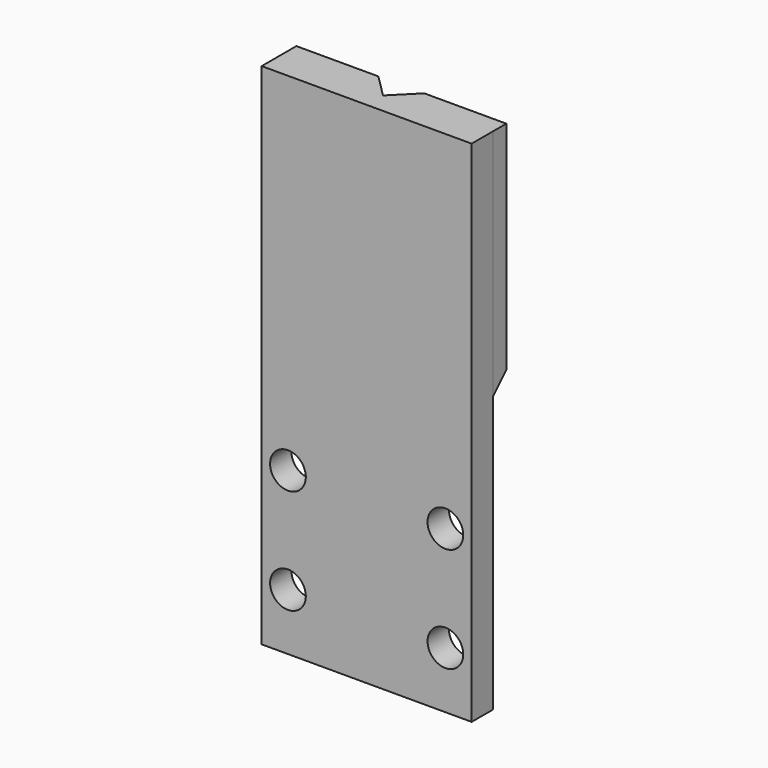
from build123d import *

# Parameters (mm, degrees)
SKETCH061_W     = 19.99996
SKETCH061_H     = 48.49876
SKETCH061_R     = 1.7
PAD018_DEPTH    = 2.54
SKETCH038_W     = 20
SKETCH038_H     = 22.225
PAD004_DEPTH    = 1.5875
POCKET005_DEPTH = 12.7
POCKET006_DEPTH = 9.525
CHAMFER_SIZE    = 1.4986
SKETCH062_R     = 0.9
PAD019_DEPTH    = 2.975
CHAMFER002_SIZE = 1.016
CHAMFER005_SIZE = 1.58496


with BuildPart() as part:
    # Sketch061 → Pad018 (new body)
    with BuildSketch(Plane(origin=(0, 10, -45.999574), x_dir=(-1, 0, 0), z_dir=(0, 1, 0))):
        with Locations((0, 13.85062)):
            Rectangle(SKETCH061_W, SKETCH061_H)
        with Locations((-7.5, 5.00124)):
            Circle(SKETCH061_R, mode=Mode.SUBTRACT)
        with Locations((-7.5, -4.99876)):
            Circle(SKETCH061_R, mode=Mode.SUBTRACT)
        with Locations((7.5, -4.99876)):
            Circle(SKETCH061_R, mode=Mode.SUBTRACT)
        with Locations((7.5, 5.00124)):
            Circle(SKETCH061_R, mode=Mode.SUBTRACT)
    extrude(amount=PAD018_DEPTH)

    # Sketch038 (on Face10 of Pad018) → Pad004 (join)
    with BuildSketch(Plane(origin=(0, 12.54, -45.999574), x_dir=(-1, 0, 0), z_dir=(0, 1, 0))):
        with Locations((0, 26.9875)):
            Rectangle(SKETCH038_W, SKETCH038_H)
    extrude(amount=PAD004_DEPTH)

    # Sketch040 (on Face5 of Pad004) → Pocket005 (cut)
    with BuildSketch(Plane(origin=(0, 10, -7.899574), x_dir=(1, 0, 0), z_dir=(0, 0, 1))):
        Polygon((-2.184862, 4.1275), (0, 1.942638), (2.184862, 4.1275), align=None)
    extrude(amount=-POCKET005_DEPTH, mode=Mode.SUBTRACT)

    # Sketch037 (on Face18 of Pocket005) → Pocket006 (cut)
    with BuildSketch(Plane(origin=(0, 10, -20.599574), x_dir=(1, 0, 0), z_dir=(0, 0, 1))):
        with BuildLine():
            Line((-2.184862, 3.2225), (-2.184862, 4.1275))
            Line((-2.184862, 4.1275), (2.184862, 4.1275))
            Line((2.184862, 4.1275), (2.184862, 3.2225))
            ThreePointArc((-2.184862, 3.2225), (0, 1.037638), (2.184862, 3.2225))
        make_face()
    extrude(amount=-POCKET006_DEPTH, mode=Mode.SUBTRACT)

    # Chamfer
    chamfer_edges = [part.edges().sort_by_distance(p)[0] for p in [
        (0, 12.54, -30.124574),
    ]]
    chamfer(chamfer_edges, length=CHAMFER_SIZE)

    # Sketch062 (on Face6 of Chamfer) → Pad019 (join)
    with BuildSketch(Plane(origin=(0, 10, -56.398334), x_dir=(-1, 0, 0), z_dir=(0, 0, -1))):
        with BuildLine():
            Line((-3.175, 2.54), (-3.175, 0))
            Line((-3.175, 0), (3.175, 0))
            Line((3.175, 0), (3.175, 2.54))
            Line((3.175, 2.54), (1.90374, 6.488023))
            ThreePointArc((1.90374, 6.488023), (0, 7.87502), (-1.90374, 6.488023))
            Line((-1.90374, 6.488023), (-3.175, 2.54))
        make_face()
        with Locations((0, 5.87502)):
            Circle(SKETCH062_R, mode=Mode.SUBTRACT)
    extrude(amount=-PAD019_DEPTH)

    # Chamfer002
    chamfer002_edges = [part.edges().sort_by_distance(p)[0] for p in [
        (0, 12.54, -53.423334),
    ]]
    chamfer(chamfer002_edges, length=CHAMFER002_SIZE)

    # Chamfer005
    chamfer005_edges = [part.edges().sort_by_distance(p)[0] for p in [
        (6.092431, 14.1275, -30.124574),
        (-6.092431, 14.1275, -30.124574),
    ]]
    chamfer(chamfer005_edges, length=CHAMFER005_SIZE)


solid = part.part
